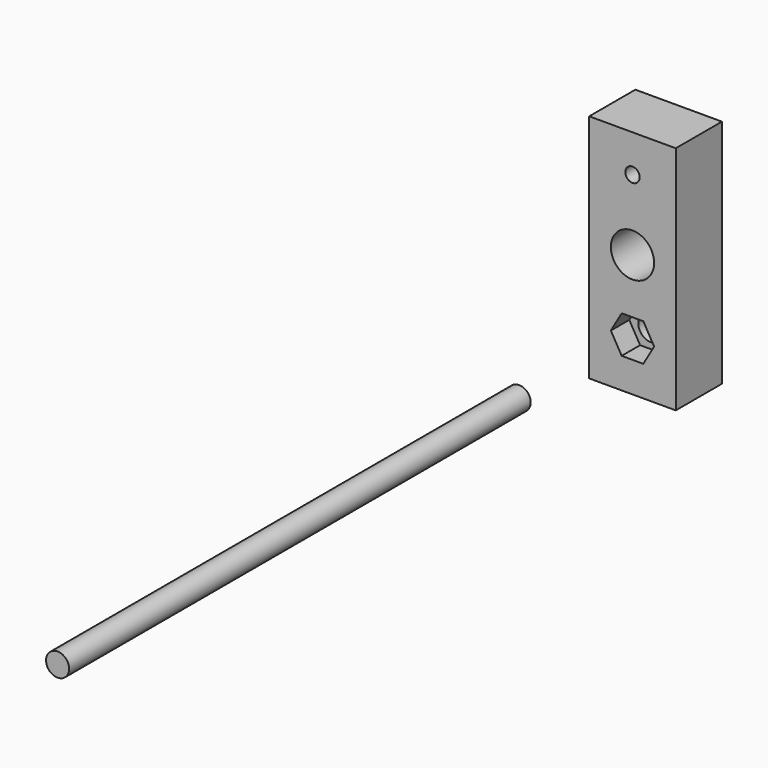
from build123d import *

# Parameters (mm, degrees)
F0_W     = 30
F0_H     = 80
F1_DEPTH = 20
F3_DEPTH = 8
F5_D     = 8.8
F7_DEPTH = 8
F8_R     = 4
F9_DEPTH = 200
F11_D    = 15
F13_D    = 5


with BuildPart() as f1:
    # F0 (on Front) → F1 (new body)
    with BuildSketch(Plane.XZ):
        with Locations((0, 22.9441225534)):
            Rectangle(F0_W, F0_H)
    extrude(amount=F1_DEPTH)

    # F2 (on face) → F3 (cut)
    with BuildSketch(Plane.XZ.offset(20)):
        Polygon((3.7527767497, 6.5), (-3.7527767497, 6.5), (-7.5055534995, 0), (-3.7527767497, -6.5), (3.7527767497, -6.5), (7.5055534995, 0), align=None)
    extrude(amount=-F3_DEPTH, mode=Mode.SUBTRACT)

    # F5 (through all)
    with Locations(Plane.XZ.offset(12)):
        with Locations((0, 0)):
            Hole(F5_D / 2)

    # F6 (on face) → F7 (cut)
    with BuildSketch(Plane(origin=(0, 0, 0), x_dir=(-1, 0, 0), z_dir=(0, 1, 0))):
        Polygon((3.7527767497, -6.5), (7.5055534995, 0), (3.7527767497, 6.5), (-3.7527767497, 6.5), (-7.5055534995, 0), (-3.7527767497, -6.5), align=None)
    extrude(amount=-F7_DEPTH, mode=Mode.SUBTRACT)

    # F11 (through all)
    with Locations(Plane.XZ.offset(20)):
        with Locations((0, 25.5)):
            Hole(F11_D / 2)

    # F13 (through all)
    with Locations(Plane.XZ.offset(20)):
        with Locations((0, 50)):
            Hole(F13_D / 2)


with BuildPart() as f9:
    # F8 (on Front) → F9 (new body)
    with BuildSketch(Plane.XZ):
        with Locations((-55.2872419357, -44.3046763539)):
            Circle(F8_R)
    extrude(amount=F9_DEPTH)


solid = Compound([f1.part, f9.part])
